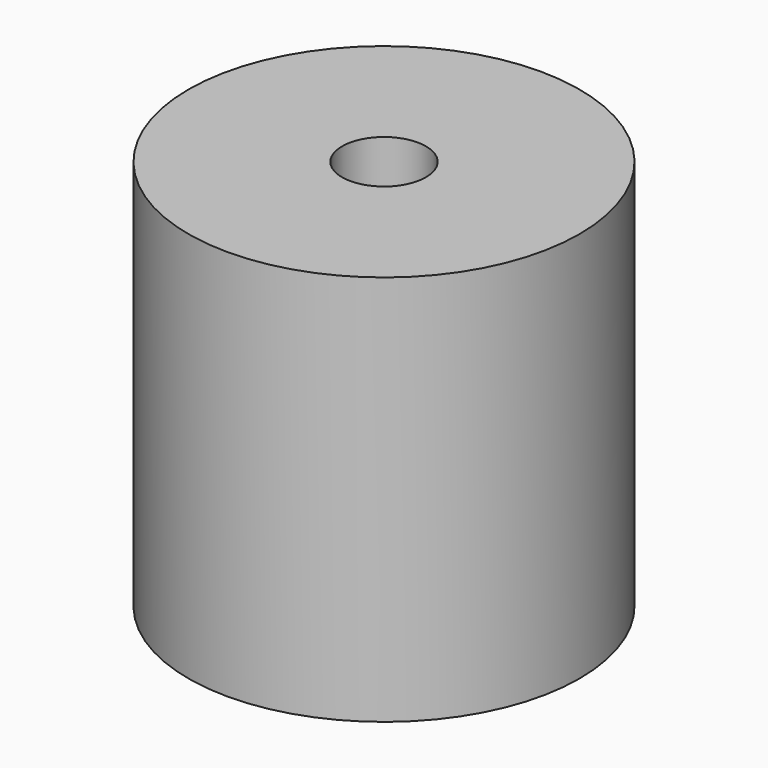
from build123d import *

# Parameters (mm, degrees)
F0_R     = 44.45
F0_R_2   = 25.4
F0_R_3   = 19.05
F0_R_4   = 9.525
F1_DEPTH = 88.9


with BuildPart() as f1:
    # F0 (on Top) → F1 (new body)
    with BuildSketch(Plane.XY):
        Circle(F0_R)
        Circle(F0_R_2, mode=Mode.SUBTRACT)
        Circle(F0_R_2)
        Circle(F0_R_3, mode=Mode.SUBTRACT)
        Circle(F0_R_3)
        Circle(F0_R_4, mode=Mode.SUBTRACT)
    extrude(amount=F1_DEPTH)


solid = f1.part
